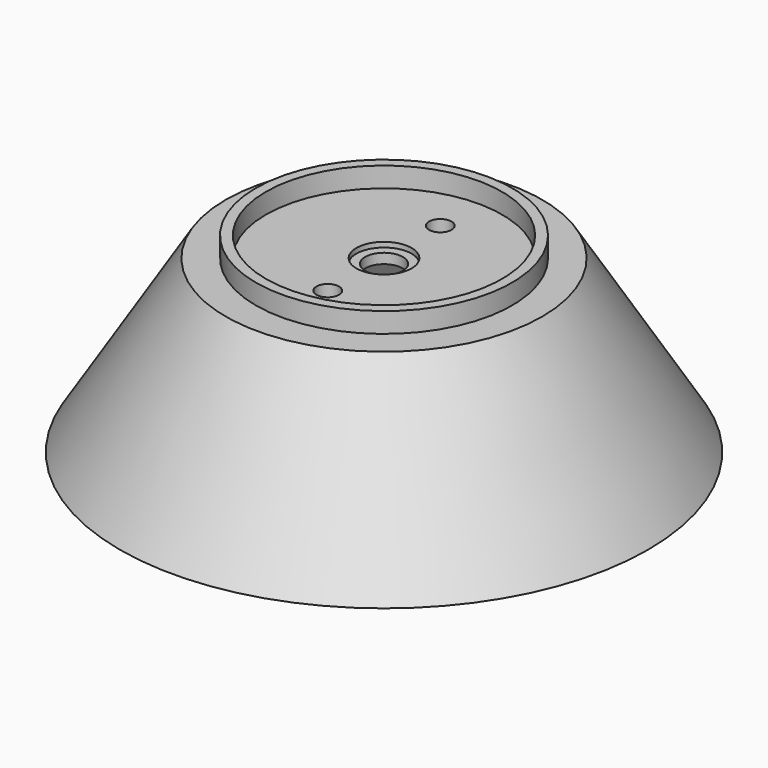
from build123d import *

# Parameters (mm, degrees)
F2_R     = 3.75
F2_R_2   = 2.25
F3_DEPTH = 25
F4_R     = 5.5
F5_DEPTH = 1


with BuildPart() as f1:
    # F0 (on Front) → F1 (revolve)
    with BuildSketch(Plane.XZ):
        Polygon((-23.5, 28.38492), (-23.5, 32.384921), (-25.5, 32.384921), (-25.5, 28.38492), (-31.5, 28.38492), (-52.571308, -5.61508), (-49.011947, -5.566755), (-29.829821, 25.38492), (0, 25.38492), (0, 28.38492), align=None)
    revolve(axis=Axis((0, 0, 26.88492), (0, 0, 1)))

    # F2 (on face) → F3 (cut)
    with BuildSketch(Plane.XY.offset(28.38492)):
        Circle(F2_R)
        with Locations((0, -14)):
            Circle(F2_R_2)
        with Locations((0, 14)):
            Circle(F2_R_2)
    extrude(amount=-F3_DEPTH, mode=Mode.SUBTRACT)

    # F4 (on face) → F5 (cut)
    with BuildSketch(Plane.XY.offset(28.38492)):
        Circle(F4_R)
    extrude(amount=-F5_DEPTH, mode=Mode.SUBTRACT)


solid = f1.part
